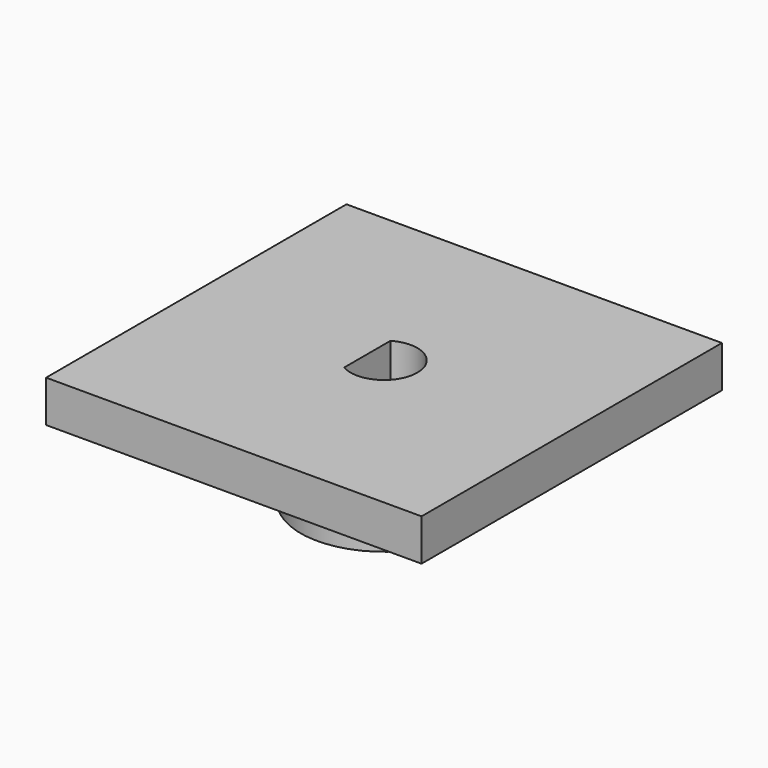
from build123d import *

# Parameters (mm, degrees)
EXTRUDE002_DEPTH = 20
SKETCH003_R      = 10
EXTRUDE_DEPTH    = 10
SKETCH_W         = 45
SKETCH_H         = 45
PAD_DEPTH        = 5


with BuildPart() as extrude002:
    # Sketch008 (on Face1 of CopyExtrude) → Extrude002 (new body)
    with BuildSketch(Plane(origin=(0, 0, -10), x_dir=(1, 0, 0), z_dir=(0, 0, -1))):
        with BuildLine():
            ThreePointArc((20.5, 19.035898), (26.5, 22.5), (20.5, 25.964102))
            Line((20.5, 25.964102), (20.5, 19.035898))
        make_face()
    extrude(amount=-EXTRUDE002_DEPTH)


with BuildPart() as valec:
    # Sketch003 → Extrude (new body)
    with BuildSketch(Plane(origin=(0, 0, 0), x_dir=(1, 0, 0), z_dir=(0, 0, -1))):
        with Locations((22.5, 22.5)):
            Circle(SKETCH003_R)
    extrude(amount=EXTRUDE_DEPTH)


with BuildPart() as obj1:
    # Sketch → Pad (new body)
    with BuildSketch(Plane.XY):
        with Locations((22.5, -22.5)):
            Rectangle(SKETCH_W, SKETCH_H)
    extrude(amount=PAD_DEPTH)

    # Fusion: union Valec
    add(valec.part)

    # Cut: cut Extrude002
    add(extrude002.part, mode=Mode.SUBTRACT)


solid = obj1.part
